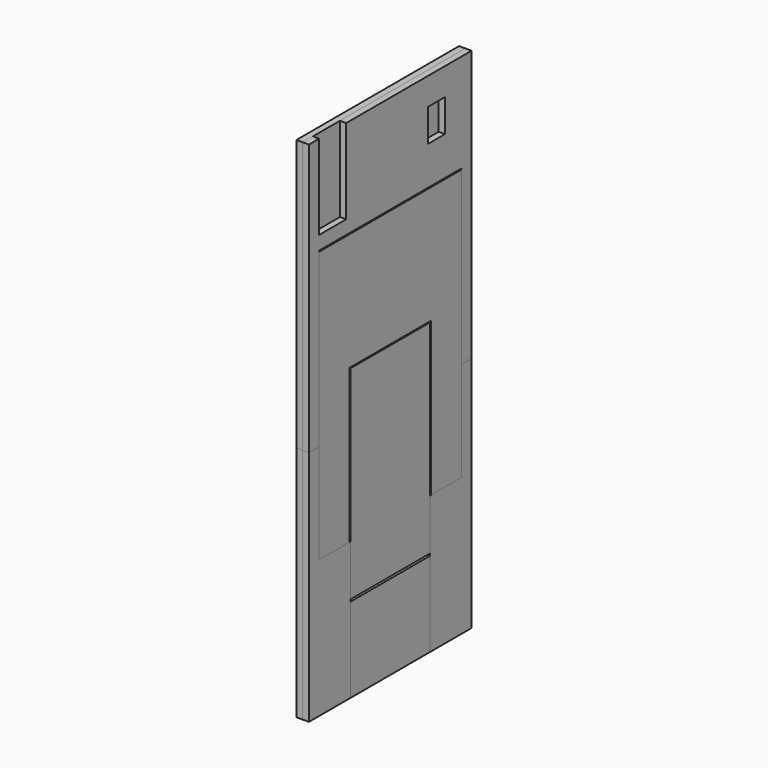
from build123d import *

# Parameters (mm, degrees)
F0_W     = 298.45
F0_H     = 254
F0_W_2   = 114.3
F0_H_2   = 298.45
F0_H_3   = 6.35
F0_W_3   = 3.175
F1_DEPTH = 18.796
F2_DEPTH = 18.796
F0_H_4   = 158.75
F0_W_4   = 60.5677366257
F0_H_5   = 55.9086799622
F3_DEPTH = 18.796
F0_W_5   = 62.8972649574
F0_H_6   = 97.8401899338
F0_W_6   = 38.1
F4_DEPTH = 18.796
F0_W_7   = 101.6
F5_DEPTH = 18.796


with BuildPart() as f1:
    # F0 (on Right) → F1 (new body)
    with BuildSketch(Plane.YZ):
        Polygon((0, 711.2), (0, 0), (155.575, 0), (155.575, 254), (155.575, 260.35), (155.575, 412.75), (152.4, 412.75), (38.1, 412.75), (38.1, 711.2), align=None)
        with Locations((304.8, 127)):
            Rectangle(F0_W, F0_H)
        Polygon((155.575, 412.75), (155.575, 260.35), (454.025, 260.35), (454.025, 412.75), (454.025, 711.2), (155.575, 711.2), align=None)
        with Locations((95.25, 561.975)):
            Rectangle(F0_W_2, F0_H_2)
        with Locations((304.8, 257.175)):
            Rectangle(F0_W, F0_H_3)
        Polygon((454.025, 254), (454.025, 0), (609.6, 0), (609.6, 711.2), (571.5, 711.2), (571.5, 412.75), (457.2, 412.75), (454.025, 412.75), (454.025, 260.35), align=None)
        with Locations((514.35, 561.975)):
            Rectangle(F0_W_2, F0_H_2)
        with Locations((455.6125, 561.975)):
            Rectangle(F0_W_3, F0_H_2)
        with Locations((153.9875, 561.975)):
            Rectangle(F0_W_3, F0_H_2)
    extrude(amount=-F1_DEPTH)


with BuildPart() as f2:
    # F0 (on Right) → F2 (new body)
    with BuildSketch(Plane.YZ):
        with Locations((304.8, 127)):
            Rectangle(F0_W, F0_H)
    extrude(amount=F2_DEPTH)


with BuildPart() as f2b:
    # F0 (on Right) → F2, piece 2 (new body)
    with BuildSketch(Plane.YZ):
        Polygon((155.575, 412.75), (155.575, 260.35), (454.025, 260.35), (454.025, 412.75), (454.025, 711.2), (155.575, 711.2), align=None)
        with Locations((304.8, 790.575)):
            Rectangle(F0_W, F0_H_4)
    extrude(amount=F2_DEPTH)


with BuildPart() as f2c:
    # F0 (on Right) → F2, piece 3 (new body)
    with BuildSketch(Plane.YZ):
        Polygon((38.1, 1225.55), (38.1, 711.2), (152.4, 711.2), (152.4, 873.125), (457.2, 873.125), (457.2, 711.2), (571.5, 711.2), (571.5, 1225.55), (463.882438755, 1225.55), (463.882438755, 1169.6413200378), (403.3147021294, 1169.6413200378), (403.3147021294, 1225.55), (206.2852978706, 1225.55), (206.2852978706, 1169.6413200378), (145.717561245, 1169.6413200378), (145.717561245, 1225.55), align=None)
        with Locations((514.35, 561.975)):
            Rectangle(F0_W_2, F0_H_2)
        with Locations((95.25, 561.975)):
            Rectangle(F0_W_2, F0_H_2)
        with Locations((176.0014295578, 1197.5956600189)):
            Rectangle(F0_W_4, F0_H_5)
        with Locations((433.5985704422, 1197.5956600189)):
            Rectangle(F0_W_4, F0_H_5)
    extrude(amount=F2_DEPTH)


with BuildPart() as f3:
    # F0 (on Right) → F3 (new body)
    with BuildSketch(Plane.YZ):
        Polygon((454.025, 254), (454.025, 0), (609.6, 0), (609.6, 711.2), (571.5, 711.2), (571.5, 412.75), (457.2, 412.75), (454.025, 412.75), (454.025, 260.35), align=None)
    extrude(amount=F3_DEPTH)


with BuildPart() as f3b:
    # F0 (on Right) → F3, piece 2 (new body)
    with BuildSketch(Plane.YZ):
        Polygon((0, 711.2), (0, 0), (155.575, 0), (155.575, 254), (155.575, 260.35), (155.575, 412.75), (152.4, 412.75), (38.1, 412.75), (38.1, 711.2), align=None)
    extrude(amount=F3_DEPTH)


with BuildPart() as f4:
    # F0 (on Right) → F4 (new body)
    with BuildSketch(Plane.YZ):
        Polygon((0, 1270), (0, 711.2), (38.1, 711.2), (38.1, 1225.55), (38.1, 1228.725), (571.5, 1228.725), (571.5, 1225.55), (571.5, 711.2), (609.6, 711.2), (609.6, 1524), (139.7, 1524), (139.7, 1270), (38.1, 1270), align=None)
        with Locations((478.4143269062, 1393.3022618294)):
            Rectangle(F0_W_5, F0_H_6, mode=Mode.SUBTRACT)
        with Locations((19.05, 1397)):
            Rectangle(F0_W_6, F0_H)
    extrude(amount=F4_DEPTH)


with BuildPart() as f5:
    # F0 (on Right) → F5 (new body)
    with BuildSketch(Plane.YZ):
        Polygon((38.1, 1225.55), (38.1, 711.2), (152.4, 711.2), (152.4, 873.125), (457.2, 873.125), (457.2, 711.2), (571.5, 711.2), (571.5, 1225.55), (463.882438755, 1225.55), (463.882438755, 1169.6413200378), (403.3147021294, 1169.6413200378), (403.3147021294, 1225.55), (206.2852978706, 1225.55), (206.2852978706, 1169.6413200378), (145.717561245, 1169.6413200378), (145.717561245, 1225.55), align=None)
        Polygon((0, 1270), (0, 711.2), (38.1, 711.2), (38.1, 1225.55), (38.1, 1228.725), (571.5, 1228.725), (571.5, 1225.55), (571.5, 711.2), (609.6, 711.2), (609.6, 1524), (139.7, 1524), (139.7, 1270), (38.1, 1270), align=None)
        with Locations((478.4143269062, 1393.3022618294)):
            Rectangle(F0_W_5, F0_H_6, mode=Mode.SUBTRACT)
        with Locations((304.8, 790.575)):
            Rectangle(F0_W, F0_H_4)
        with Locations((88.9, 1397)):
            Rectangle(F0_W_7, F0_H)
        with Locations((19.05, 1397)):
            Rectangle(F0_W_6, F0_H)
        with Locations((478.4143269062, 1393.3022618294)):
            Rectangle(F0_W_5, F0_H_6)
        with Locations((433.5985704422, 1197.5956600189)):
            Rectangle(F0_W_4, F0_H_5)
        with Locations((176.0014295578, 1197.5956600189)):
            Rectangle(F0_W_4, F0_H_5)
        Polygon((152.4, 873.125), (152.4, 711.2), (155.575, 711.2), (155.575, 869.95), (454.025, 869.95), (454.025, 711.2), (457.2, 711.2), (457.2, 873.125), align=None)
        Polygon((38.1, 1228.725), (38.1, 1225.55), (145.717561245, 1225.55), (206.2852978706, 1225.55), (403.3147021294, 1225.55), (463.882438755, 1225.55), (571.5, 1225.55), (571.5, 1228.725), align=None)
    extrude(amount=-F5_DEPTH)


solid = Compound([f1.part, f2.part, f2b.part, f2c.part, f3.part, f3b.part, f4.part, f5.part])
